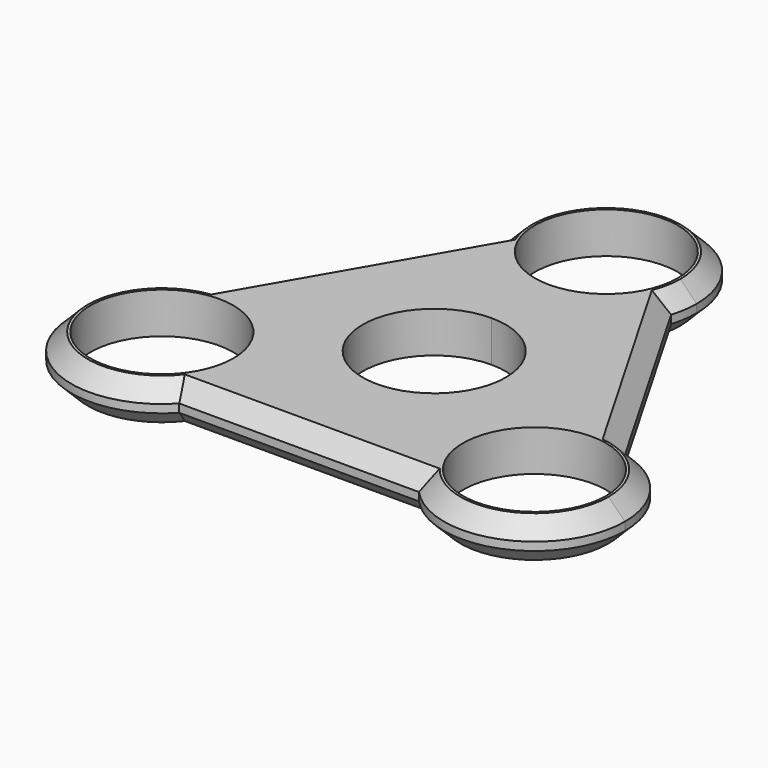
from build123d import *

# Parameters (mm, degrees)
F0_R     = 11.049
F1_DEPTH = 6.35
F2_SIZE  = 2.54
F3_DEPTH = 6.35


with BuildPart() as f1:
    # F0 (on Top) → F1 (new body)
    with BuildSketch(Plane.XY):
        with BuildLine():
            ThreePointArc((0, 11.049), (-7.812823, -7.812823), (11.049, 0))
            ThreePointArc((11.049, 0), (7.812823, 7.812823), (0, 11.049))
        make_face()
        with BuildLine():
            ThreePointArc((13.97, 0), (9.878282, 9.878282), (0, 13.97))
            ThreePointArc((0, 13.97), (-9.878282, -9.878282), (13.97, 0))
        make_face()
        with BuildLine():
            ThreePointArc((0, 11.049), (7.812823, 7.812823), (11.049, 0))
            ThreePointArc((11.049, 0), (-7.812823, -7.812823), (0, 11.049))
        make_face(mode=Mode.SUBTRACT)
        with BuildLine():
            ThreePointArc((13.338323, 29.080812), (8.280673, 21.982845), (0, 19.264128))
            ThreePointArc((0, 19.264128), (-8.280673, 21.982845), (-13.338323, 29.080812))
            ThreePointArc((-13.338323, 29.080812), (-15.574662, 8.992035), (-31.853884, -2.989079))
            ThreePointArc((-31.853884, -2.989079), (-20.05689, -5.706502), (-14.811599, -16.617064))
            ThreePointArc((-14.811599, -16.617064), (-15.770499, -21.703533), (-18.51556, -26.091733))
            ThreePointArc((-18.51556, -26.091733), (0, -17.984071), (18.51556, -26.091733))
            ThreePointArc((18.51556, -26.091733), (16.683224, -9.632064), (31.853884, -2.989079))
            ThreePointArc((31.853884, -2.989079), (15.574662, 8.992035), (13.338323, 29.080812))
        make_face()
        with BuildLine():
            ThreePointArc((13.97, 0), (-9.878282, -9.878282), (0, 13.97))
            ThreePointArc((0, 13.97), (9.878282, 9.878282), (13.97, 0))
        make_face(mode=Mode.SUBTRACT)
        with BuildLine():
            ThreePointArc((11.049, 33.234128), (-7.812823, 41.046951), (0, 22.185128))
            ThreePointArc((0, 22.185128), (7.812823, 25.421305), (11.049, 33.234128))
        make_face()
        with BuildLine():
            ThreePointArc((-13.338323, 29.080812), (-8.280673, 21.982845), (0, 19.264128))
            ThreePointArc((0, 19.264128), (8.280673, 21.982845), (13.338323, 29.080812))
            ThreePointArc((13.338323, 29.080812), (13.811178, 31.133589), (13.97, 33.234128))
            ThreePointArc((13.97, 33.234128), (-2.100538, 47.045306), (-13.338323, 29.080812))
        make_face()
        with BuildLine():
            ThreePointArc((11.049, 33.234128), (7.812823, 25.421305), (0, 22.185128))
            ThreePointArc((0, 22.185128), (-7.812823, 41.046951), (11.049, 33.234128))
        make_face(mode=Mode.SUBTRACT)
        with BuildLine():
            ThreePointArc((-31.853884, -2.989079), (-15.574662, 8.992035), (-13.338323, 29.080812))
            Line((-13.338323, 29.080812), (-31.853884, -2.989079))
        make_face()
        with BuildLine():
            Line((31.853884, -2.989079), (13.338323, 29.080812))
            ThreePointArc((13.338323, 29.080812), (15.574662, 8.992035), (31.853884, -2.989079))
        make_face()
        with BuildLine():
            ThreePointArc((-14.811599, -16.617064), (-20.05689, -5.706502), (-31.853884, -2.989079))
            ThreePointArc((-31.853884, -2.989079), (-40.879974, -23.602064), (-18.51556, -26.091733))
            ThreePointArc((-18.51556, -26.091733), (-15.770499, -21.703533), (-14.811599, -16.617064))
        make_face()
        with Locations((-28.781599, -16.617064)):
            Circle(F0_R, mode=Mode.SUBTRACT)
        with BuildLine():
            ThreePointArc((42.751599, -16.617064), (39.692161, -7.892355), (31.853884, -2.989079))
            ThreePointArc((31.853884, -2.989079), (16.683224, -9.632064), (18.51556, -26.091733))
            ThreePointArc((18.51556, -26.091733), (33.868068, -29.628164), (42.751599, -16.617064))
        make_face()
        with Locations((28.781599, -16.617064)):
            Circle(F0_R, mode=Mode.SUBTRACT)
        with BuildLine():
            ThreePointArc((18.51556, -26.091733), (0, -17.984071), (-18.51556, -26.091733))
            Line((-18.51556, -26.091733), (18.51556, -26.091733))
        make_face()
    extrude(amount=F1_DEPTH)

    # F2
    f2_edges = [f1.edges().sort_by_distance(p)[0] for p in [
        (0, -26.091733, 6.35),
        (-22.596104, 13.045866, 6.35),
        (22.596104, 13.045866, 6.35),
        (-40.879974, -23.602064, 6.35),
        (40.879974, -23.602064, 6.35),
        (0, 47.204128, 6.35),
        (0, 47.204128, 0),
        (-22.596104, 13.045866, 0),
        (-40.879974, -23.602064, 0),
        (0, -26.091733, 0),
        (40.879974, -23.602064, 0),
        (22.596104, 13.045866, 0),
    ]]
    chamfer(f2_edges, length=F2_SIZE)

    # F0 (on Top) → F3 (join)
    with BuildSketch(Plane.XY):
        with BuildLine():
            ThreePointArc((13.97, 0), (9.878282, 9.878282), (0, 13.97))
            ThreePointArc((0, 13.97), (-9.878282, -9.878282), (13.97, 0))
        make_face()
        with BuildLine():
            ThreePointArc((0, 11.049), (7.812823, 7.812823), (11.049, 0))
            ThreePointArc((11.049, 0), (-7.812823, -7.812823), (0, 11.049))
        make_face(mode=Mode.SUBTRACT)
    extrude(amount=F3_DEPTH)


solid = f1.part
